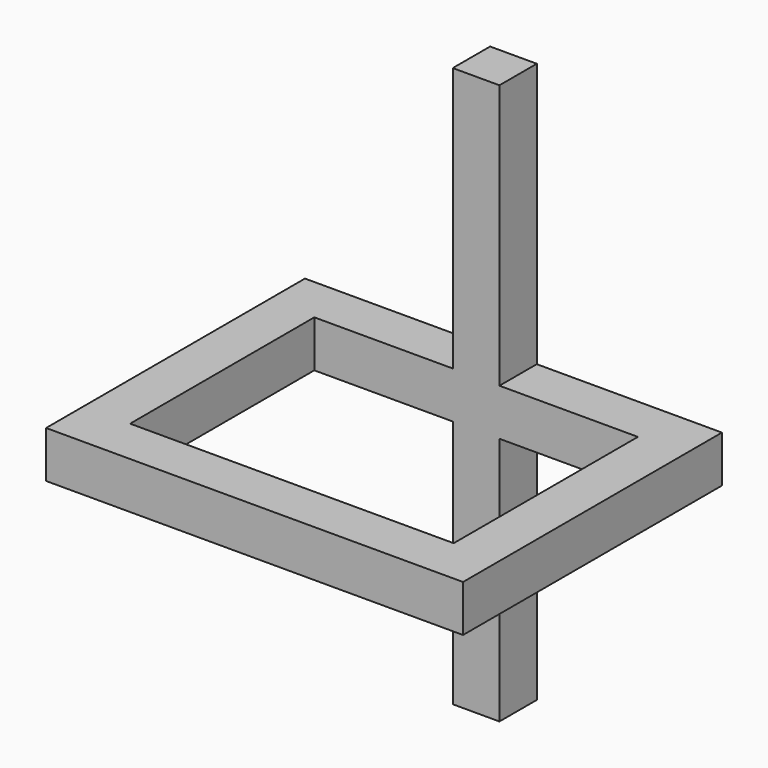
from build123d import *

# Parameters (mm, degrees)
F0_W          = 170.18
F0_H          = 132.08
F0_W_2        = 132.08
F0_H_2        = 93.98
F1_DEPTH      = 9.525
F2_W          = 19.05
F2_H          = 19.05
F3_DEPTH      = 101.6
F3_DEPTH_BACK = 127


with BuildPart() as f1:
    # F0 (on Top) → F1 (new body, symmetric)
    with BuildSketch(Plane.XY):
        Rectangle(F0_W, F0_H)
        Rectangle(F0_W_2, F0_H_2, mode=Mode.SUBTRACT)
    extrude(amount=F1_DEPTH, both=True)

    # F2 (on face) → F3 (join, two sides)
    with BuildSketch(Plane(origin=(0, 0, -9.525), x_dir=(1, 0, 0), z_dir=(0, 0, -1))) as f3_sk:
        with Locations((0, -56.515)):
            Rectangle(F2_W, F2_H)
    extrude(amount=F3_DEPTH)
    extrude(f3_sk.sketch, amount=-F3_DEPTH_BACK)


solid = f1.part
